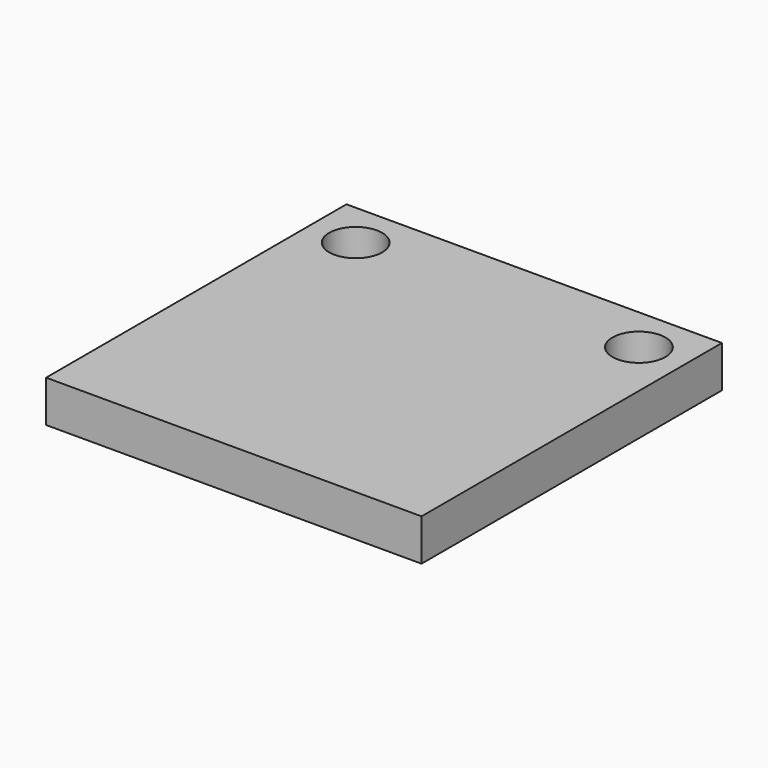
from build123d import *

# Parameters (mm, degrees)
F0_W     = 18
F0_H     = 18
F1_DEPTH = 2
F3_D     = 2.54
F5_D     = 2.54


with BuildPart() as f1:
    # F0 (on Top) → F1 (new body)
    with BuildSketch(Plane.XY):
        Rectangle(F0_W, F0_H)
    extrude(amount=F1_DEPTH)

    # F3 (through all)
    with Locations(Plane.XY.offset(2)):
        with Locations((6.7902, 6.7902)):
            Hole(F3_D / 2)

    # F5 (through all)
    with Locations(Plane(origin=(0, 0, 0), x_dir=(1, 0, 0), z_dir=(0, 0, -1))):
        with Locations((-6.7902, -6.7902)):
            Hole(F5_D / 2)


solid = f1.part
